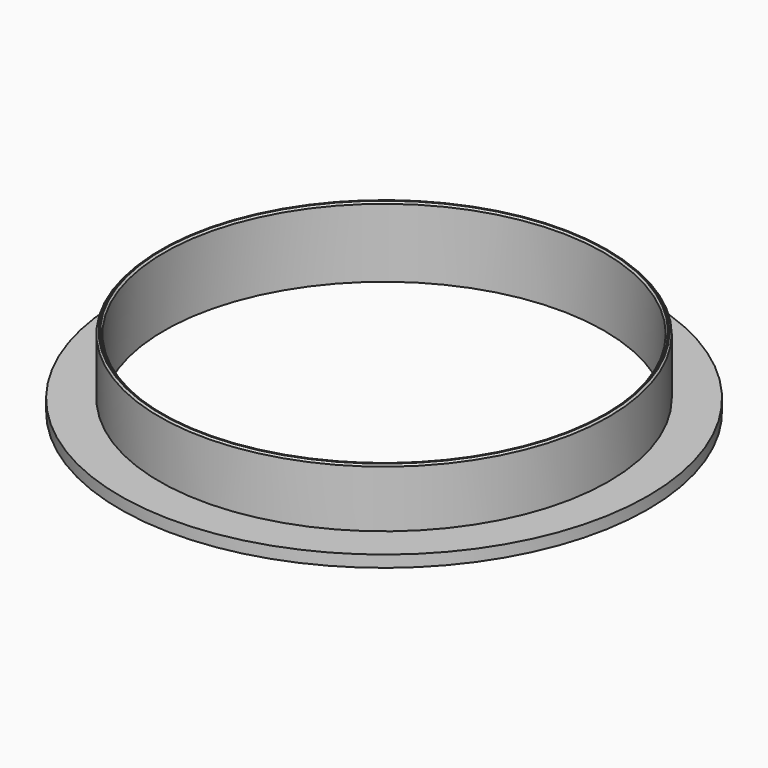
from build123d import *

# Parameters (mm, degrees)
SKETCH_R        = 45
SKETCH_R_2      = 37.5
PAD_DEPTH       = 2
SKETCH001_R     = 38.3
SKETCH001_R_2   = 37.5
PAD001_DEPTH    = 10
CHAMFER_SIZE    = 0.3
CHAMFER001_SIZE = 0.3


with BuildPart() as part:
    # Sketch → Pad (new body)
    with BuildSketch(Plane.XY):
        Circle(SKETCH_R)
        Circle(SKETCH_R_2, mode=Mode.SUBTRACT)
    extrude(amount=PAD_DEPTH)

    # Sketch001 (on Face4 of Pad) → Pad001 (join)
    with BuildSketch(Plane.XY.offset(2)):
        Circle(SKETCH001_R)
        Circle(SKETCH001_R_2, mode=Mode.SUBTRACT)
    extrude(amount=PAD001_DEPTH)

    # Chamfer
    chamfer_edges = [part.edges().sort_by_distance(p)[0] for p in [
        (-37.5, 0, 12),
    ]]
    chamfer(chamfer_edges, length=CHAMFER_SIZE)

    # Chamfer001
    chamfer001_edges = [part.edges().sort_by_distance(p)[0] for p in [
        (-38.3, 0, 12),
    ]]
    chamfer(chamfer001_edges, length=CHAMFER001_SIZE)


solid = part.part
